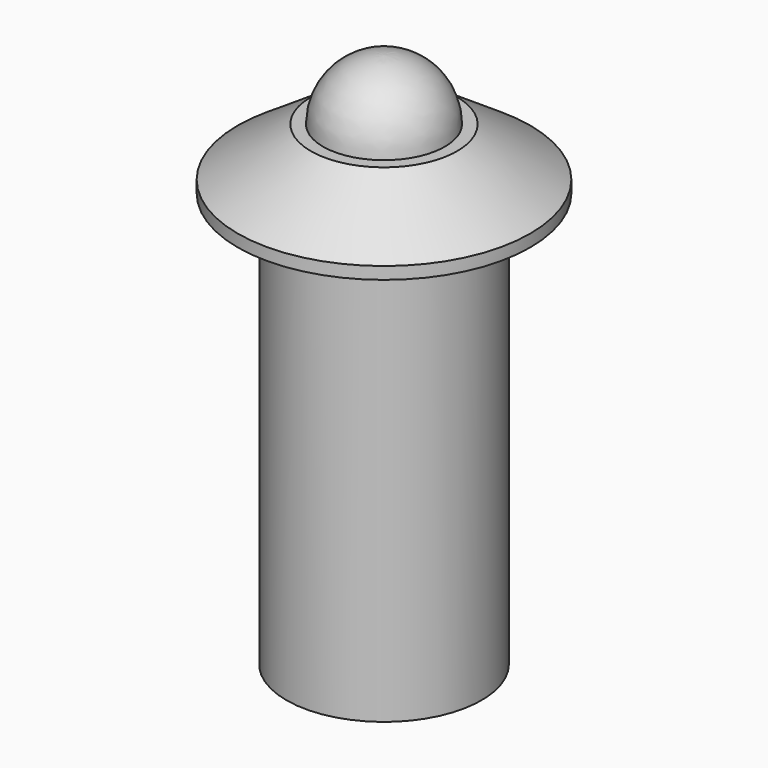
from build123d import *


with BuildPart() as f1:
    # F0 (on Front) → F1 (revolve)
    with BuildSketch(Plane.XZ):
        Polygon((0, -17), (0, 2.5), (-3, 2.5), (-6, 0.5), (-6, 0), (-4, 0), (-4, -17), align=None)
    revolve(axis=Axis((0, 0, -7.25), (0, 0, -1)))


with BuildPart() as f3:
    # F2 (on Front) → F3 (revolve)
    with BuildSketch(Plane.XZ):
        with BuildLine():
            Line((-2.5, 2.5), (0, 2.5))
            Line((0, 2.5), (0, 5))
            ThreePointArc((0, 5), (-1.767767, 4.267767), (-2.5, 2.5))
        make_face()
    revolve(axis=Axis((0, 0, 3.75), (0, 0, 1)))


solid = Compound([f1.part, f3.part])
